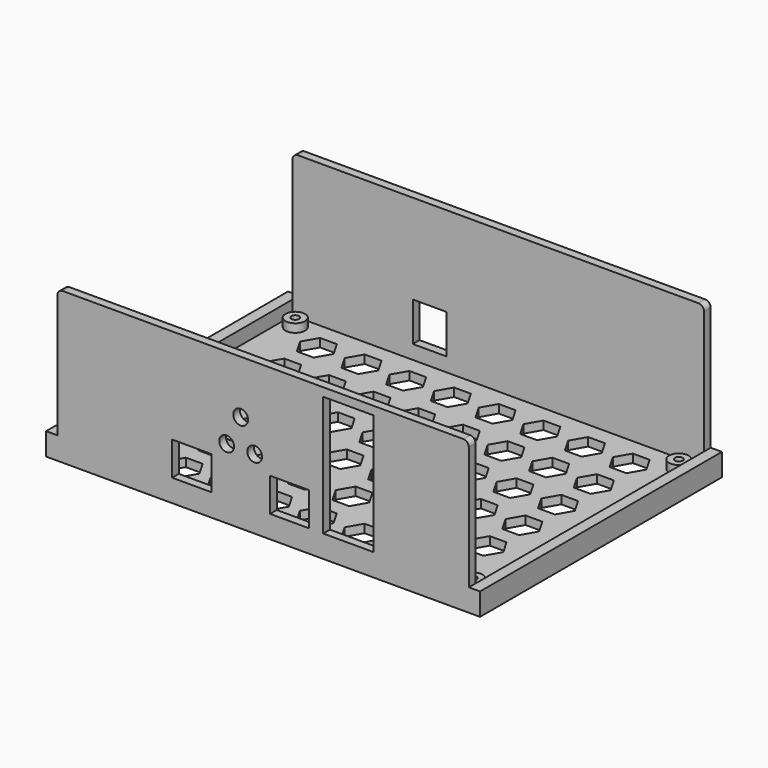
from build123d import *

# Parameters (mm, degrees)
SKETCH_W         = 155
SKETCH_H         = 110
PAD_DEPTH        = 6
SKETCH001_W      = 147
SKETCH001_H      = 102
POCKET_DEPTH     = 3
SKETCH002_R      = 3.5
PAD001_DEPTH     = 3
PAD001_FACE5_W   = 110
PAD001_FACE5_H   = 155
PAD001_FACE5_W_2 = 102
PAD001_FACE5_H_2 = 147
PAD002_DEPTH     = 2
SKETCH003_R      = 1.4
POCKET001_DEPTH  = 5
SKETCH004_W      = 147
SKETCH004_H      = 4
PAD003_DEPTH     = 46
SKETCH005_W      = 14
SKETCH005_H      = 12
SKETCH005_W_2    = 18
SKETCH005_H_2    = 43
POCKET002_DEPTH  = 5
SKETCH006_W      = 12
SKETCH006_H      = 14
POCKET003_DEPTH  = 5
FILLET_R         = 2
POCKET004_DEPTH  = 5
SKETCH008_R      = 2.65
POCKET005_DEPTH  = 5
SKETCH009_W      = 161.807731
SKETCH009_H      = 1
POCKET006_DEPTH  = 60
SKETCH010_W      = 180.853966
SKETCH010_H      = 1
POCKET007_DEPTH  = 60


with BuildPart() as part:
    # Sketch → Pad (new body)
    with BuildSketch(Plane.XY):
        Rectangle(SKETCH_W, SKETCH_H)
    extrude(amount=PAD_DEPTH)

    # Sketch001 (on Face6 of Pad) → Pocket (cut)
    with BuildSketch(Plane.XY.offset(6)):
        Rectangle(SKETCH001_W, SKETCH001_H)
    extrude(amount=-POCKET_DEPTH, mode=Mode.SUBTRACT)

    # Sketch002 (on Face11 of Pocket) → Pad001 (join)
    with BuildSketch(Plane.XY.offset(3)):
        with Locations((-68.5, 46)):
            Circle(SKETCH002_R)
        with Locations((-68.5, -46)):
            Circle(SKETCH002_R)
        with Locations((68.5, 46)):
            Circle(SKETCH002_R)
        with Locations((68.5, -46)):
            Circle(SKETCH002_R)
    extrude(amount=PAD001_DEPTH)

    # Pad001 Face5 → Pad002 (add)
    with BuildSketch(Plane(origin=(0, 0, 6), x_dir=(0, 1, 0), z_dir=(0, 0, 1))):
        Rectangle(PAD001_FACE5_W, PAD001_FACE5_H)
        Rectangle(PAD001_FACE5_W_2, PAD001_FACE5_H_2, mode=Mode.SUBTRACT)
    extrude(amount=PAD002_DEPTH)

    # Sketch003 (on Face8 of Pad002) → Pocket001 (cut)
    with BuildSketch(Plane.XY.offset(6)):
        with Locations((-68.5, 46)):
            Circle(SKETCH003_R)
        with Locations((68.5, 46)):
            Circle(SKETCH003_R)
        with Locations((68.5, -46)):
            Circle(SKETCH003_R)
        with Locations((-68.5, -46)):
            Circle(SKETCH003_R)
    extrude(amount=-POCKET001_DEPTH, mode=Mode.SUBTRACT)

    # Sketch004 (on Face10 of Pocket001) → Pad003 (join)
    with BuildSketch(Plane.XY.offset(8)):
        with Locations((0, -53)):
            Rectangle(SKETCH004_W, SKETCH004_H)
        with Locations((0, 53)):
            Rectangle(SKETCH004_W, SKETCH004_H)
    extrude(amount=PAD003_DEPTH)

    # Sketch005 (on Face34 of Pad003) → Pocket002 (cut)
    with BuildSketch(Plane.XZ.offset(55)):
        with Locations((-25.5, 14)):
            Rectangle(SKETCH005_W, SKETCH005_H)
        with Locations((9.5, 14)):
            Rectangle(SKETCH005_W, SKETCH005_H)
        with Locations((30.5, 29.5)):
            Rectangle(SKETCH005_W_2, SKETCH005_H_2)
    extrude(amount=-POCKET002_DEPTH, mode=Mode.SUBTRACT)

    # Sketch006 (on Face44 of Pocket002) → Pocket003 (cut)
    with BuildSketch(Plane(origin=(0, 55, 0), x_dir=(-1, 0, 0), z_dir=(0, 1, 0))):
        with Locations((24.5, 15)):
            Rectangle(SKETCH006_W, SKETCH006_H)
    extrude(amount=-POCKET003_DEPTH, mode=Mode.SUBTRACT)

    # Fillet
    fillet_edges = [part.edges().sort_by_distance(p)[0] for p in [
        (-73.5, -53, 54),
        (73.5, -53, 54),
        (73.5, 53, 54),
        (-73.5, 53, 54),
    ]]
    fillet(fillet_edges, radius=FILLET_R)

    # Sketch007 (on Face14 of Fillet) → Pocket004 (cut)
    with BuildSketch(Plane.XY.offset(3)):
        Polygon((-53, 34.803848), (-50, 40), (-53, 45.196152), (-59, 45.196152), (-62, 40), (-59, 34.803848), align=None)
        Polygon((-37.035275, 34.798649), (-34.035275, 39.994801), (-37.035275, 45.190953), (-43.035275, 45.190953), (-46.035275, 39.994801), (-43.035275, 34.798649), align=None)
        Polygon((-21.07055, 34.79345), (-18.07055, 39.989602), (-21.07055, 45.185754), (-27.07055, 45.185754), (-30.07055, 39.989602), (-27.07055, 34.79345), align=None)
        Polygon((-5.105825, 34.788251), (-2.105825, 39.984403), (-5.105825, 45.180555), (-11.105825, 45.180555), (-14.105825, 39.984403), (-11.105825, 34.788251), align=None)
        Polygon((10.8589, 34.783052), (13.8589, 39.979204), (10.8589, 45.175356), (4.8589, 45.175356), (1.8589, 39.979204), (4.8589, 34.783052), align=None)
        Polygon((26.823625, 34.777853), (29.823625, 39.974005), (26.823625, 45.170157), (20.823625, 45.170157), (17.823625, 39.974005), (20.823625, 34.777853), align=None)
        Polygon((42.78835, 34.772654), (45.78835, 39.968806), (42.78835, 45.164958), (36.78835, 45.164958), (33.78835, 39.968806), (36.78835, 34.772654), align=None)
        Polygon((58.753075, 34.767455), (61.753075, 39.963607), (58.753075, 45.159759), (52.753075, 45.159759), (49.753075, 39.963607), (52.753075, 34.767455), align=None)
        Polygon((-53.005199, 18.839123), (-50.005199, 24.035275), (-53.005199, 29.231427), (-59.005199, 29.231427), (-62.005199, 24.035275), (-59.005199, 18.839123), align=None)
        Polygon((-37.040474, 18.833924), (-34.040474, 24.030076), (-37.040474, 29.226228), (-43.040474, 29.226228), (-46.040474, 24.030076), (-43.040474, 18.833924), align=None)
        Polygon((-21.075749, 18.828725), (-18.075749, 24.024877), (-21.075749, 29.221029), (-27.075749, 29.221029), (-30.075749, 24.024877), (-27.075749, 18.828725), align=None)
        Polygon((-5.111024, 18.823526), (-2.111024, 24.019678), (-5.111024, 29.21583), (-11.111024, 29.21583), (-14.111024, 24.019678), (-11.111024, 18.823526), align=None)
        Polygon((10.853701, 18.818327), (13.853701, 24.014479), (10.853701, 29.210631), (4.853701, 29.210631), (1.853701, 24.014479), (4.853701, 18.818327), align=None)
        Polygon((26.818426, 18.813128), (29.818426, 24.00928), (26.818426, 29.205432), (20.818426, 29.205432), (17.818426, 24.00928), (20.818426, 18.813128), align=None)
        Polygon((42.783151, 18.807929), (45.783151, 24.004081), (42.783151, 29.200233), (36.783151, 29.200233), (33.783151, 24.004081), (36.783151, 18.807929), align=None)
        Polygon((58.747876, 18.80273), (61.747876, 23.998882), (58.747876, 29.195034), (52.747876, 29.195034), (49.747876, 23.998882), (52.747876, 18.80273), align=None)
        Polygon((-53.010398, 2.874398), (-50.010398, 8.07055), (-53.010398, 13.266702), (-59.010398, 13.266702), (-62.010398, 8.07055), (-59.010398, 2.874398), align=None)
        Polygon((-37.045673, 2.869199), (-34.045673, 8.065351), (-37.045673, 13.261503), (-43.045673, 13.261503), (-46.045673, 8.065351), (-43.045673, 2.869199), align=None)
        Polygon((-21.080948, 2.864), (-18.080948, 8.060152), (-21.080948, 13.256304), (-27.080948, 13.256304), (-30.080948, 8.060152), (-27.080948, 2.864), align=None)
        Polygon((-5.116223, 2.858801), (-2.116223, 8.054953), (-5.116223, 13.251105), (-11.116223, 13.251105), (-14.116223, 8.054953), (-11.116223, 2.858801), align=None)
        Polygon((10.848502, 2.853602), (13.848502, 8.049754), (10.848502, 13.245906), (4.848502, 13.245906), (1.848502, 8.049754), (4.848502, 2.853602), align=None)
        Polygon((26.813227, 2.848403), (29.813227, 8.044555), (26.813227, 13.240707), (20.813227, 13.240707), (17.813227, 8.044555), (20.813227, 2.848403), align=None)
        Polygon((42.777952, 2.843204), (45.777952, 8.039356), (42.777952, 13.235508), (36.777952, 13.235508), (33.777952, 8.039356), (36.777952, 2.843204), align=None)
        Polygon((58.742677, 2.838005), (61.742677, 8.034157), (58.742677, 13.230309), (52.742677, 13.230309), (49.742677, 8.034157), (52.742677, 2.838005), align=None)
        Polygon((-53.015597, -13.090327), (-50.015597, -7.894175), (-53.015597, -2.698023), (-59.015597, -2.698023), (-62.015597, -7.894175), (-59.015597, -13.090327), align=None)
        Polygon((-37.050872, -13.095526), (-34.050872, -7.899374), (-37.050872, -2.703222), (-43.050872, -2.703222), (-46.050872, -7.899374), (-43.050872, -13.095526), align=None)
        Polygon((-21.086147, -13.100725), (-18.086147, -7.904573), (-21.086147, -2.708421), (-27.086147, -2.708421), (-30.086147, -7.904573), (-27.086147, -13.100725), align=None)
        Polygon((-5.121422, -13.105924), (-2.121422, -7.909772), (-5.121422, -2.71362), (-11.121422, -2.71362), (-14.121422, -7.909772), (-11.121422, -13.105924), align=None)
        Polygon((10.843303, -13.111123), (13.843303, -7.914971), (10.843303, -2.718819), (4.843303, -2.718819), (1.843303, -7.914971), (4.843303, -13.111123), align=None)
        Polygon((26.808028, -13.116322), (29.808028, -7.92017), (26.808028, -2.724018), (20.808028, -2.724018), (17.808028, -7.92017), (20.808028, -13.116322), align=None)
        Polygon((42.772753, -13.121521), (45.772753, -7.925369), (42.772753, -2.729217), (36.772753, -2.729217), (33.772753, -7.925369), (36.772753, -13.121521), align=None)
        Polygon((58.737478, -13.12672), (61.737478, -7.930568), (58.737478, -2.734416), (52.737478, -2.734416), (49.737478, -7.930568), (52.737478, -13.12672), align=None)
        Polygon((-53.020796, -29.055052), (-50.020796, -23.8589), (-53.020796, -18.662748), (-59.020796, -18.662748), (-62.020796, -23.8589), (-59.020796, -29.055052), align=None)
        Polygon((-37.056071, -29.060251), (-34.056071, -23.864099), (-37.056071, -18.667947), (-43.056071, -18.667947), (-46.056071, -23.864099), (-43.056071, -29.060251), align=None)
        Polygon((-21.091346, -29.06545), (-18.091346, -23.869298), (-21.091346, -18.673146), (-27.091346, -18.673146), (-30.091346, -23.869298), (-27.091346, -29.06545), align=None)
        Polygon((-5.126621, -29.070649), (-2.126621, -23.874497), (-5.126621, -18.678345), (-11.126621, -18.678345), (-14.126621, -23.874497), (-11.126621, -29.070649), align=None)
        Polygon((10.838104, -29.075848), (13.838104, -23.879696), (10.838104, -18.683544), (4.838104, -18.683544), (1.838104, -23.879696), (4.838104, -29.075848), align=None)
        Polygon((26.802829, -29.081047), (29.802829, -23.884895), (26.802829, -18.688743), (20.802829, -18.688743), (17.802829, -23.884895), (20.802829, -29.081047), align=None)
        Polygon((42.767554, -29.086246), (45.767554, -23.890094), (42.767554, -18.693942), (36.767554, -18.693942), (33.767554, -23.890094), (36.767554, -29.086246), align=None)
        Polygon((58.732279, -29.091445), (61.732279, -23.895293), (58.732279, -18.699141), (52.732279, -18.699141), (49.732279, -23.895293), (52.732279, -29.091445), align=None)
        Polygon((-53.025995, -45.019777), (-50.025995, -39.823625), (-53.025995, -34.627473), (-59.025995, -34.627473), (-62.025995, -39.823625), (-59.025995, -45.019777), align=None)
        Polygon((-37.06127, -45.024976), (-34.06127, -39.828824), (-37.06127, -34.632672), (-43.06127, -34.632672), (-46.06127, -39.828824), (-43.06127, -45.024976), align=None)
        Polygon((-21.096545, -45.030175), (-18.096545, -39.834023), (-21.096545, -34.637871), (-27.096545, -34.637871), (-30.096545, -39.834023), (-27.096545, -45.030175), align=None)
        Polygon((-5.13182, -45.035374), (-2.13182, -39.839222), (-5.13182, -34.64307), (-11.13182, -34.64307), (-14.13182, -39.839222), (-11.13182, -45.035374), align=None)
        Polygon((10.832905, -45.040573), (13.832905, -39.844421), (10.832905, -34.648269), (4.832905, -34.648269), (1.832905, -39.844421), (4.832905, -45.040573), align=None)
        Polygon((26.79763, -45.045772), (29.79763, -39.84962), (26.79763, -34.653468), (20.79763, -34.653468), (17.79763, -39.84962), (20.79763, -45.045772), align=None)
        Polygon((42.762355, -45.050971), (45.762355, -39.854819), (42.762355, -34.658667), (36.762355, -34.658667), (33.762355, -39.854819), (36.762355, -45.050971), align=None)
        Polygon((58.72708, -45.05617), (61.72708, -39.860018), (58.72708, -34.663866), (52.72708, -34.663866), (49.72708, -39.860018), (52.72708, -45.05617), align=None)
    extrude(amount=-POCKET004_DEPTH, mode=Mode.SUBTRACT)

    # Sketch008 (on Face318 of Pocket004) → Pocket005 (cut)
    with BuildSketch(Plane.XZ.offset(55)):
        with Locations((-13, 25)):
            Circle(SKETCH008_R)
        with Locations((-3, 25)):
            Circle(SKETCH008_R)
        with Locations((-8, 35)):
            Circle(SKETCH008_R)
    extrude(amount=-POCKET005_DEPTH, mode=Mode.SUBTRACT)

    # Sketch009 → Pocket006 (cut)
    with BuildSketch(Plane.XY):
        with Locations((0.470387, -54.5)):
            Rectangle(SKETCH009_W, SKETCH009_H)
    extrude(amount=POCKET006_DEPTH, mode=Mode.SUBTRACT)

    # Sketch010 → Pocket007 (cut)
    with BuildSketch(Plane.XY):
        with Locations((-0.492626, 54.5)):
            Rectangle(SKETCH010_W, SKETCH010_H)
    extrude(amount=POCKET007_DEPTH, mode=Mode.SUBTRACT)


solid = part.part
